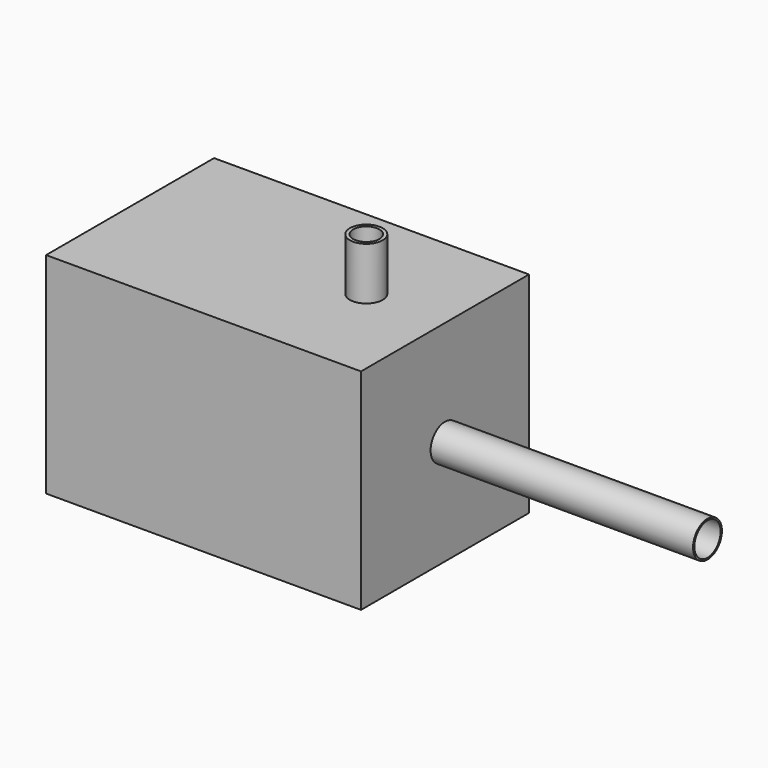
from build123d import *

# Parameters (mm, degrees)
F0_W     = 304.8
F0_H     = 203.2
F1_DEPTH = 203.2
F2_R     = 17.4625
F2_R_2   = 15.875
F3_DEPTH = 254
F4_R     = 15.875
F4_R_2   = 12.7
F5_DEPTH = 50.8


with BuildPart() as f1:
    # F0 (on Front) → F1 (new body)
    with BuildSketch(Plane.XZ):
        with Locations((152.4, 101.6)):
            Rectangle(F0_W, F0_H)
    extrude(amount=F1_DEPTH)

    # F2 (on face) → F3 (join)
    with BuildSketch(Plane.YZ.offset(304.8)):
        with Locations((-101.6, 101.6)):
            Circle(F2_R)
        with Locations((-101.6, 101.6)):
            Circle(F2_R_2, mode=Mode.SUBTRACT)
    extrude(amount=F3_DEPTH)

    # F4 (on face) → F5 (join)
    with BuildSketch(Plane.XY.offset(203.2)):
        with Locations((228.6, -101.6)):
            Circle(F4_R)
        with Locations((228.6, -101.6)):
            Circle(F4_R_2, mode=Mode.SUBTRACT)
    extrude(amount=F5_DEPTH)


solid = f1.part
